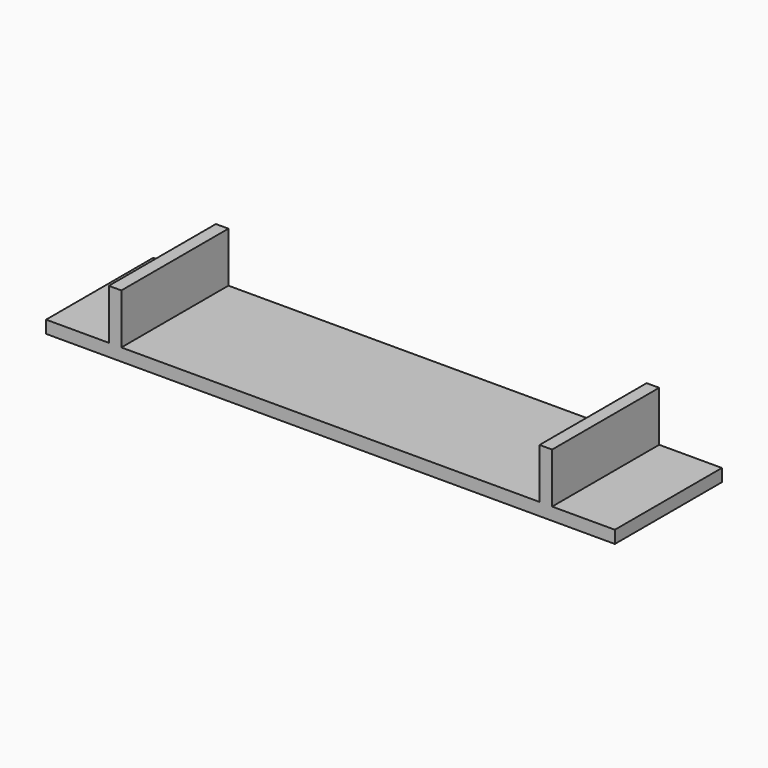
from build123d import *

# Parameters (mm, degrees)
F0_W     = 431.8
F0_H     = 101.6
F1_DEPTH = 9.525
F2_W     = 9.525
F2_H     = 38.1
F3_DEPTH = 50.8
F4_W     = 9.525
F4_H     = 38.1
F5_DEPTH = 50.8


with BuildPart() as f1:
    # F0 (on Top) → F1 (new body)
    with BuildSketch(Plane.XY):
        Rectangle(F0_W, F0_H)
    extrude(amount=-F1_DEPTH)

    # F2 (on Front) → F3 (join, symmetric)
    with BuildSketch(Plane.XZ):
        with Locations((-163.5125, 19.05)):
            Rectangle(F2_W, F2_H)
    extrude(amount=F3_DEPTH, both=True)

    # F4 (on Front) → F5 (join, symmetric)
    with BuildSketch(Plane.XZ):
        with Locations((163.5125, 19.05)):
            Rectangle(F4_W, F4_H)
    extrude(amount=F5_DEPTH, both=True)


solid = f1.part
